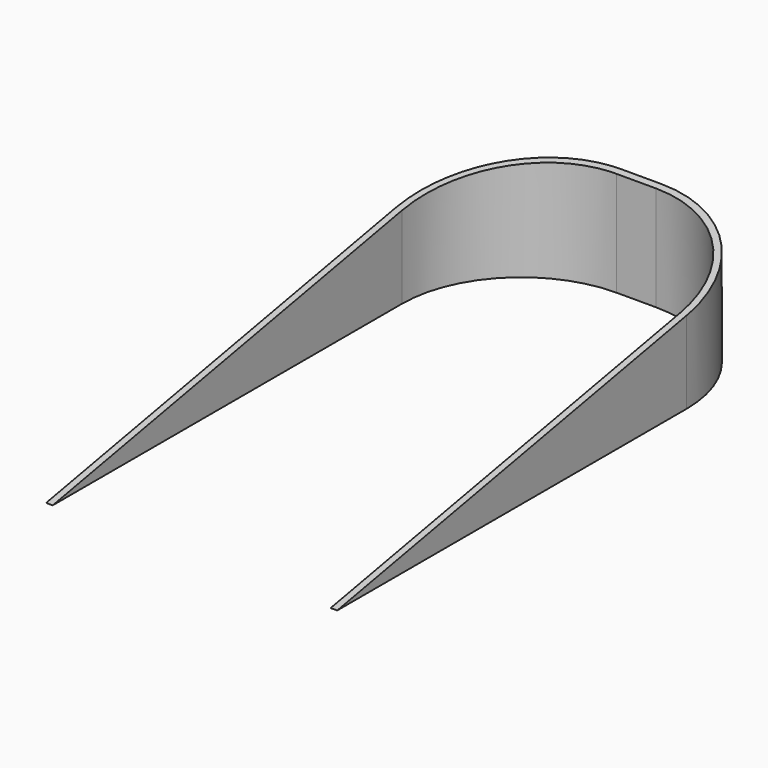
from build123d import *

# Parameters (mm, degrees)
F1_DEPTH = 1219.2
F3_DEPTH = 2235.201


with BuildPart() as f1:
    # F0 (on Top) → F1 (new body)
    with BuildSketch(Plane.XY):
        with BuildLine():
            ThreePointArc((-1022.35, 1219.2), (-754.528441, 1865.778441), (-107.95, 2133.6))
            Line((-107.95, 2133.6), (196.85, 2133.6))
            ThreePointArc((196.85, 2133.6), (843.428441, 1865.778441), (1111.25, 1219.2))
            Line((1111.25, 1219.2), (1111.25, -2133.6))
            Line((1111.25, -2133.6), (1162.05, -2133.6))
            Line((1162.05, -2133.6), (1162.05, 1219.2))
            ThreePointArc((1162.05, 1219.2), (879.349465, 1901.699465), (196.85, 2184.4))
            Line((196.85, 2184.4), (-107.95, 2184.4))
            ThreePointArc((-107.95, 2184.4), (-790.449465, 1901.699465), (-1073.15, 1219.2))
            Line((-1073.15, 1219.2), (-1073.15, -2133.6))
            Line((-1073.15, -2133.6), (-1022.35, -2133.6))
            Line((-1022.35, -2133.6), (-1022.35, 1219.2))
        make_face()
    extrude(amount=F1_DEPTH)

    # F2 (on face) → F3 (cut, through all)
    with BuildSketch(Plane.YZ.offset(1162.05)):
        Polygon((2184.4, 812.8), (2184.4, 1219.2), (-2133.6, 1219.2), (-2133.6, 609.6), (-2133.6, 0), align=None)
    extrude(amount=-F3_DEPTH, mode=Mode.SUBTRACT)


solid = f1.part
